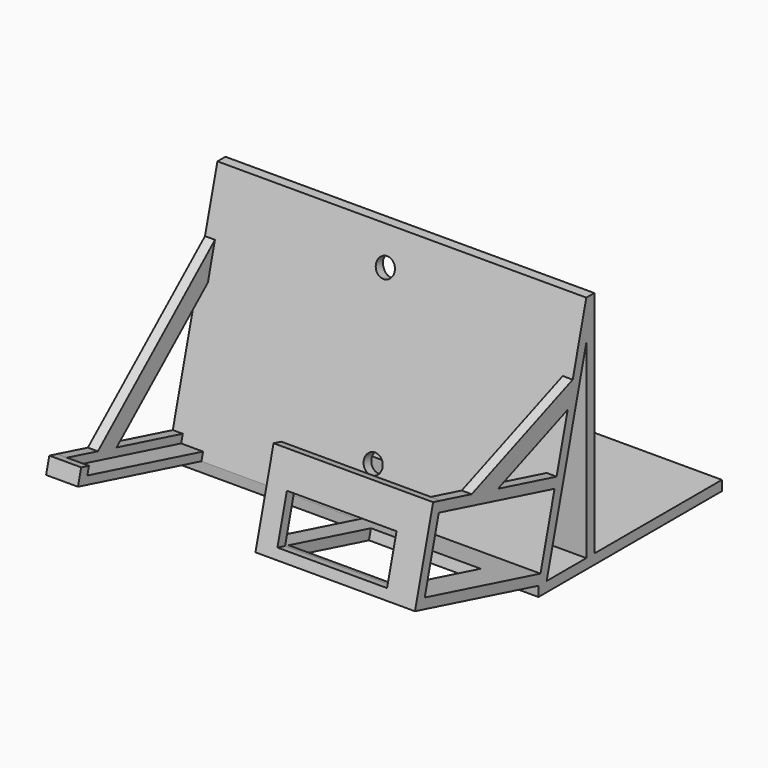
from build123d import *

# Parameters (mm, degrees)
F0_W      = 6.35
F0_H      = 146.05
F0_W_2    = 101.6
F0_H_2    = 6.35
F1_DEPTH  = 228.6
F4_DEPTH  = 101.6
F5_DEPTH  = 6.35
F7_W      = 69.85
F7_H      = 29.8027028753
F8_DEPTH  = 6.35
F6_W      = 69.85
F6_H      = 67.7882859973
F9_DEPTH  = 6.35
F10_DEPTH = 6.35
F12_DEPTH = 234.95
F13_R     = 3.175
F14_DEPTH = 6.35
F16_DEPTH = 20.32
F17_DEPTH = 6.35
F20_DEPTH = 6.35
F18_R     = 6
F21_DEPTH = 12.7
F23_DEPTH = 12.7


with BuildPart() as f1:
    # F0 (on Right) → F1 (new body)
    with BuildSketch(Plane.YZ):
        Polygon((-30.3053990938, 47.6320354104), (-30.3053990938, 41.2820354104), (14.1446009062, 41.2820354104), (14.1446009062, 47.6320354104), (7.7946009062, 47.6320354104), (7.7946009062, 193.6820354104), align=None)
        with Locations((10.9696009062, 120.6570354104)):
            Rectangle(F0_W, F0_H)
        Polygon((-30.3053990938, 47.6320354104), (-30.3053990938, 41.2820354104), (14.1446009062, 41.2820354104), (14.1446009062, 47.6320354104), (7.7946009062, 47.6320354104), (7.7946009062, 193.6820354104), align=None)
        with Locations((64.9446009062, 44.4570354104)):
            Rectangle(F0_W_2, F0_H_2)
    extrude(amount=F1_DEPTH)

    # F2 (on face) → F4 (join)
    with BuildSketch(Plane.YZ.offset(228.6)):
        Polygon((-128.6153139693, 73.2781001605), (-122.4709442896, 71.6752211137), (-120.8680652427, 77.8195907934), (-115.2579885786, 99.3248846724), (-109.6479119145, 120.8301785514), (-108.0450328676, 126.9745482311), (-114.1894025473, 128.577427278), align=None)
        Polygon((-122.4709442896, 71.6752211137), (-30.3053990938, 47.6320354104), (-28.7025200469, 53.7764050901), (-106.5976272263, 74.0968678326), (-120.8680652427, 77.8195907934), align=None)
    extrude(amount=-F4_DEPTH)

    # F3 (on face) → F5 (join)
    with BuildSketch(Plane.YZ.offset(228.6)):
        Polygon((-109.6479119145, 120.8301785514), (-69.2754185778, 110.2982237679), (-17.4823667187, 96.7869928482), (-15.8794876718, 102.9313625279), (-62.5744384004, 115.1126540223), (-83.4675541487, 120.5630320436), (-108.0450328676, 126.9745482311), align=None)
    extrude(amount=-F5_DEPTH)

    # F7 (on face) → F8 (cut, through all)
    with BuildSketch(Plane(origin=(0, -138.3183697556, 36.0830529797), x_dir=(1, 0, 0), z_dir=(0, -0.9676172724, 0.2524218971))):
        with Locations((174.625, 59.6911852871)):
            Rectangle(F7_W, F7_H)
    extrude(amount=-F8_DEPTH, mode=Mode.SUBTRACT)

    # F6 (on face) → F9 (cut, through all)
    with BuildSketch(Plane(origin=(0, 11.3059348332, 43.3394168605), x_dir=(1, 0, 0), z_dir=(0, 0.2524218971, 0.9676172724))):
        with Locations((174.625, -99.8529585577)):
            Rectangle(F6_W, F6_H)
    extrude(amount=-F9_DEPTH, mode=Mode.SUBTRACT)

    # F2 (on face) + F5_face (on face) + F0 (on Right) → F10 (join)
    with BuildSketch(Plane.YZ.offset(228.6)):
        Polygon((-83.4675541487, 120.5630320436), (-62.5744384004, 115.1126540223), (-30.6417442167, 127.6311188518), (-7.020366585, 136.8913266941), (-3.0564552968, 152.0863199656), align=None)
    with BuildSketch(Plane(origin=(228.6, -14.5704476362, 90.6728554843), x_dir=(0, 1, 0), z_dir=(1, 0, 0))):
        Polygon((22.3650485424, 103.0091799261), (-1.3090400356, 12.2585070436), (-99.6189549112, 37.9045717937), (-114.0448663331, -17.3947553238), (-15.7349514576, -43.0408200739), (-15.7349514576, -49.3908200739), (130.3150485424, -49.3908200739), (130.3150485424, -43.0408200739), (28.7150485424, -43.0408200739), (28.7150485424, 103.0091799261), align=None)
        Polygon((-2.9119190825, 6.1141373639), (-14.1320724107, -36.8964503942), (-106.2976176065, -12.8532646909), (-95.0774642783, 30.1573230671), align=None, mode=Mode.SUBTRACT)
    with BuildSketch(Plane.YZ):
        Polygon((-30.3053990938, 47.6320354104), (-30.3053990938, 41.2820354104), (14.1446009062, 41.2820354104), (14.1446009062, 47.6320354104), (7.7946009062, 47.6320354104), (7.7946009062, 193.6820354104), align=None)
        with Locations((64.9446009062, 44.4570354104)):
            Rectangle(F0_W_2, F0_H_2)
        with Locations((10.9696009062, 120.6570354104)):
            Rectangle(F0_W, F0_H)
    extrude(amount=-F10_DEPTH)

    # F11 (on face) → F12 (cut, through all)
    with BuildSketch(Plane(origin=(-6.35, 0, 0), x_dir=(0, -1, 0), z_dir=(-1, 0, 0))):
        Polygon((23.742887054, 47.6320354104), (18.5949307967, 67.3658677301), (-7.7946009062, 168.5257392579), (-7.7946009062, 73.7693533301), (-7.7946009062, 47.6320354104), align=None)
    extrude(amount=-F12_DEPTH, mode=Mode.SUBTRACT)

    # F13 (on face) → F14 (cut, through all)
    with BuildSketch(Plane(origin=(0, 0, 41.2820354104), x_dir=(1, 0, 0), z_dir=(0, 0, -1))):
        with BuildLine():
            ThreePointArc((110.906295836, 7.9551242506), (113.4283928169, 8.705126833), (114.518704164, 11.0998498276))
            ThreePointArc((114.518704164, 11.0998498276), (109.2590155112, 13.4945728222), (110.906295836, 7.9551242506))
        make_face()
        with Locations((110.906295836, -42.7196009062)):
            Circle(F13_R)
    extrude(amount=-F14_DEPTH, mode=Mode.SUBTRACT)

    # F15 (on face) → F16 (join)
    with BuildSketch(Plane(origin=(-6.35, 0, 0), x_dir=(0, -1, 0), z_dir=(-1, 0, 0))):
        Polygon((29.0230958563, 52.5475311542), (30.3053990938, 47.6320354104), (128.6153139693, 73.2781001605), (126.0507074943, 83.1090916481), (119.9063378146, 81.5062126012), (120.8680652427, 77.8195907934), (121.1886410521, 76.5907168574), align=None)
    extrude(amount=-F16_DEPTH)

    # F15 (on face) → F17 (join)
    with BuildSketch(Plane(origin=(-6.35, 0, 0), x_dir=(0, -1, 0), z_dir=(-1, 0, 0))):
        Polygon((27.7407926188, 57.463026898), (29.0230958563, 52.5475311542), (121.1886410521, 76.5907168574), (120.8680652427, 77.8195907934), (119.9063378146, 81.5062126012), (95.3288590957, 75.0946964137), (80.4160992001, 71.2044112235), align=None)
        Polygon((43.3673341555, 103.2638010329), (80.4160992001, 71.2044112235), (95.3288590957, 75.0946964137), (2.0947278686, 155.7729417735), (7.7533245088, 134.0816546527), align=None)
    extrude(amount=-F17_DEPTH)

    # F19 (on face) → F20 (cut)
    with BuildSketch(Plane(origin=(0, 14.1446009062, 0), x_dir=(-1, 0, 0), z_dir=(0, 1, 0))):
        Polygon((-73.025, 122.8082254529), (-73.025, 180.9820354104), (-114.1596585512, 180.9820354104), (-149.225, 180.9820354104), (-149.225, 126.8474459648), (-149.225, 60.3320354104), (-73.025, 60.3320354104), align=None)
    extrude(amount=-F20_DEPTH, mode=Mode.SUBTRACT)

    # F18 (on face) → F21 (cut)
    with BuildSketch(Plane(origin=(0, -40.0084548801, 10.4369882296), x_dir=(1, 0, 0), z_dir=(0, -0.9676172724, 0.2524218971))):
        with Locations((117.25, 68.4398338495)):
            Circle(F18_R)
        with Locations((105, 167.5570309162)):
            Circle(F18_R)
    extrude(amount=-F21_DEPTH, mode=Mode.SUBTRACT)

    # F22 (on face) → F23 (join)
    with BuildSketch(Plane(origin=(-6.35, 0, 0), x_dir=(0, -1, 0), z_dir=(-1, 0, 0))):
        Polygon((-14.1446009062, 171.4428658202), (-14.1446009062, 193.6820354104), (-115.7446009062, 47.6320354104), (-100.2738742348, 47.6320354104), (-84.3938715819, 70.4595392239), align=None)
    extrude(amount=-F23_DEPTH)


solid = f1.part
